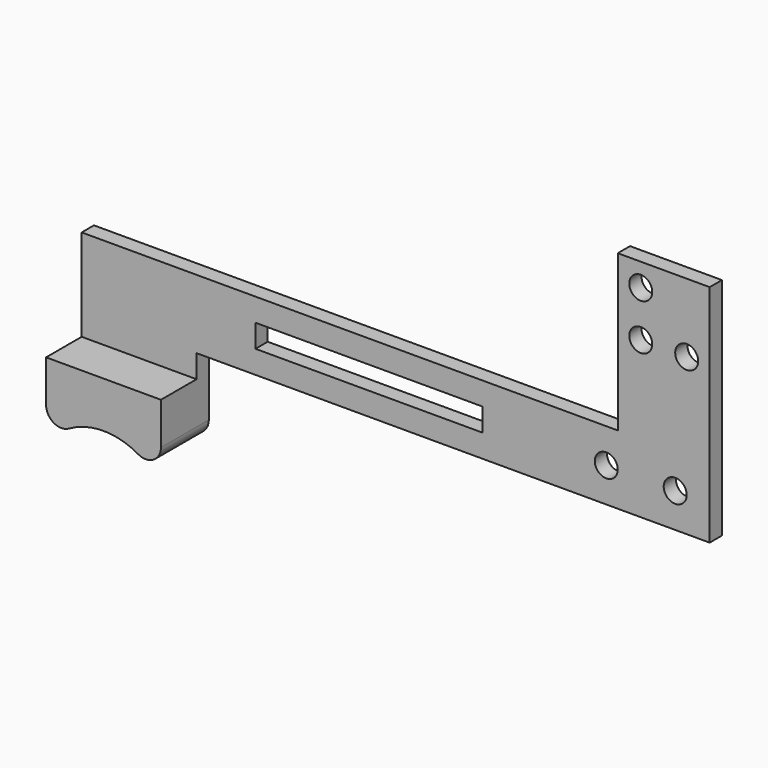
from build123d import *

# Parameters (mm, degrees)
F0_W      = 12
F0_H      = 16.5
F0_R      = 1.5
F0_W_2    = 15
F0_H_2    = 3
F1_DEPTH  = 2
F2_W      = 15
F2_H      = 7.8090135939
F3_DEPTH  = 10
F5_DEPTH  = 25
F6_R      = 2
F7_W      = 29.6666743584
F7_H      = 3
F8_DEPTH  = 25
F9_R      = 1.5
F10_DEPTH = 25


with BuildPart() as f1:
    # F0 (on Front) → F1 (new body)
    with BuildSketch(Plane.XZ):
        with Locations((3, -5.25)):
            Rectangle(F0_W, F0_H)
        with Locations((0, -6)):
            Circle(F0_R, mode=Mode.SUBTRACT)
        with Locations((6, -6)):
            Circle(F0_R, mode=Mode.SUBTRACT)
        Circle(F0_R, mode=Mode.SUBTRACT)
        Polygon((9, -13.5), (-3, -13.5), (-3, -17.375), (-3, -26.375), (9, -26.375), align=None)
        Polygon((-3, -26.375), (-3, -17.375), (-73, -17.375), (-73, -26.375), (-58, -26.375), align=None)
        with Locations((-65.5, -27.875)):
            Rectangle(F0_W_2, F0_H_2)
    extrude(amount=F1_DEPTH)

    # F2 (on face) → F3 (join)
    with BuildSketch(Plane(origin=(0, 0, -29.375), x_dir=(1, 0, 0), z_dir=(0, 0, -1))):
        with Locations((-65.5, 3.904506797)):
            Rectangle(F2_W, F2_H)
    extrude(amount=F3_DEPTH)

    # F4 (on face) → F5 (cut)
    with BuildSketch(Plane.XZ.offset(7.8090135939)):
        with BuildLine():
            Line((-73, -39.375), (-58, -39.375))
            ThreePointArc((-58, -39.375), (-65.5, -35.3883488839), (-73, -39.375))
        make_face()
    extrude(amount=-F5_DEPTH, mode=Mode.SUBTRACT)

    # F6
    f6_edges = [f1.edges().sort_by_distance(p)[0] for p in [
        (-73, -3.904507, -39.375),
        (-58, -3.904507, -39.375),
    ]]
    fillet(f6_edges, radius=F6_R)

    # F7 (on face) → F8 (cut)
    with BuildSketch(Plane.XZ.offset(2)):
        with Locations((-35.4711478576, -21.875)):
            Rectangle(F7_W, F7_H)
    extrude(amount=-F8_DEPTH, mode=Mode.SUBTRACT)

    # F9 (on face) → F10 (cut)
    with BuildSketch(Plane.XZ.offset(2)):
        with Locations((-4.5, -21.875)):
            Circle(F9_R)
        with Locations((4.5, -21.875)):
            Circle(F9_R)
    extrude(amount=-F10_DEPTH, mode=Mode.SUBTRACT)


solid = f1.part
